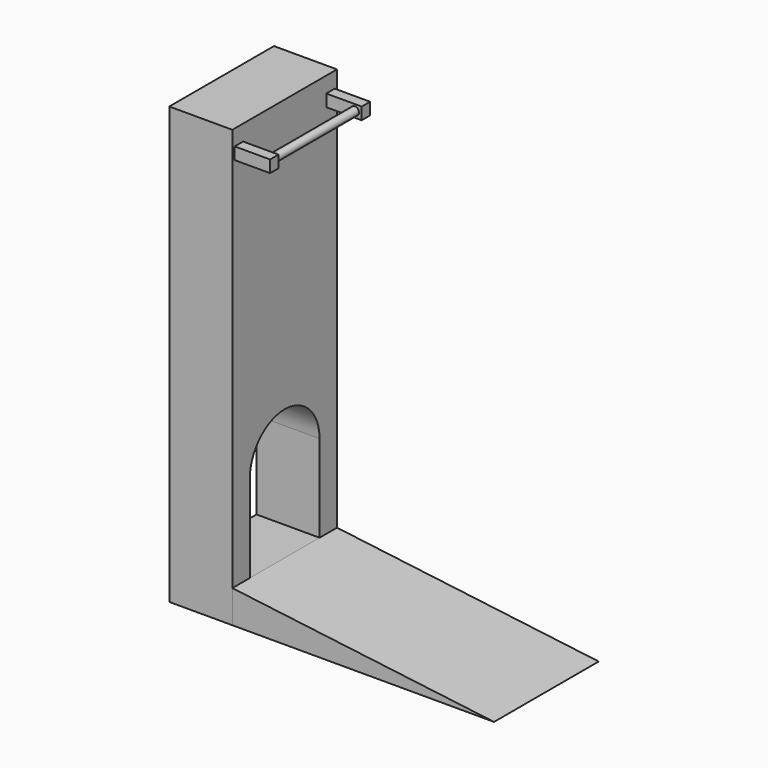
from build123d import *

# Parameters (mm, degrees)
F1_DEPTH = 609.6
F2_W     = 293.7587650299
F2_H     = 609.6
F3_DEPTH = 2032
F4_W     = 49.1579873383
F4_H     = 56.1940948486
F5_DEPTH = 165.1
F6_R     = 19.05
F7_DEPTH = 484.2420126617
F9_DEPTH = 293.7587650299


with BuildPart() as f1:
    # F0 (on Front) → F1 (new body)
    with BuildSketch(Plane.XZ):
        Polygon((-1219.2, 0), (0, 0), (-1219.2, 152.4), align=None)
    extrude(amount=F1_DEPTH)


with BuildPart() as f3:
    # F2 (on face) → F3 (new body)
    with BuildSketch(Plane(origin=(0, 0, 0), x_dir=(1, 0, 0), z_dir=(0, 0, -1))):
        with Locations((-1366.079382515, 304.8)):
            Rectangle(F2_W, F2_H)
    extrude(amount=-F3_DEPTH)

    # F4 (on face) → F5 (join)
    with BuildSketch(Plane.YZ.offset(-1219.2)):
        with Locations((-571.5, 1930.4)):
            Rectangle(F4_W, F4_H)
        with Locations((-38.1, 1930.4)):
            Rectangle(F4_W, F4_H)
    extrude(amount=F5_DEPTH)

    # F6 (on face) → F7 (join, through all)
    with BuildSketch(Plane(origin=(0, -546.9210063308, 0), x_dir=(-1, 0, 0), z_dir=(0, 1, 0))):
        with Locations((1085.85, 1930.4)):
            Circle(F6_R)
    extrude(amount=F7_DEPTH)

    # F8 (on face) → F9 (cut, through all)
    with BuildSketch(Plane.YZ.offset(-1219.2)):
        with BuildLine():
            Line((-508, 558.8), (-508, 152.4))
            Line((-508, 152.4), (-101.6, 152.4))
            Line((-101.6, 152.4), (-101.6, 558.8))
            ThreePointArc((-101.6, 558.8), (-304.8, 762), (-508, 558.8))
        make_face()
    extrude(amount=-F9_DEPTH, mode=Mode.SUBTRACT)


solid = Compound([f1.part, f3.part])
